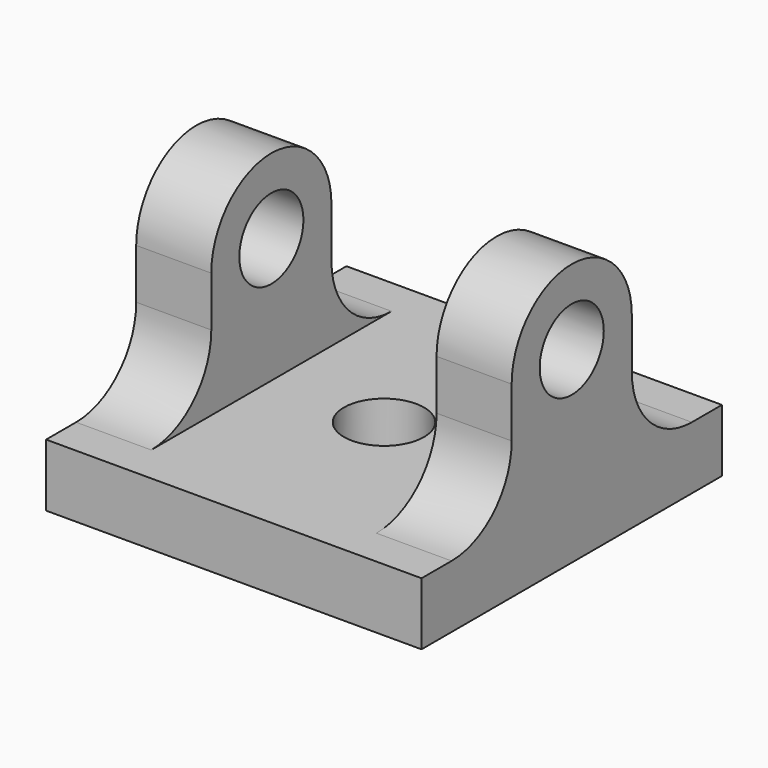
from build123d import *

# Parameters (mm, degrees)
F0_R     = 1.6
F1_DEPTH = 7.5
F2_R     = 3
F3_W     = 9
F3_H     = 46.435098
F4_DEPTH = 8.001
F6_D     = 3.2


with BuildPart() as f1:
    # F0 (on Right) → F1 (new body, symmetric)
    with BuildSketch(Plane.YZ):
        with BuildLine():
            ThreePointArc((3, 0), (0, 3), (-3, 0))
            Line((-3, 0), (-3, -5))
            Line((-3, -5), (-7.5, -5))
            Line((-7.5, -5), (-7.5, -7.5))
            Line((-7.5, -7.5), (7.5, -7.5))
            Line((7.5, -7.5), (7.5, -5))
            Line((7.5, -5), (3, -5))
            Line((3, -5), (3, 0))
        make_face()
        Circle(F0_R, mode=Mode.SUBTRACT)
    extrude(amount=F1_DEPTH, both=True)

    # F2
    f2_edges = [f1.edges().sort_by_distance(p)[0] for p in [
        (0, -3, -5),
        (0, 3, -5),
    ]]
    fillet(f2_edges, radius=F2_R)

    # F3 (on face) → F4 (cut, through all)
    with BuildSketch(Plane.XY.offset(-5)):
        Rectangle(F3_W, F3_H)
    extrude(amount=F4_DEPTH, mode=Mode.SUBTRACT)

    # F6 (through all)
    with Locations(Plane.XY):
        with Locations((0, 0)):
            Hole(F6_D / 2)


solid = f1.part
